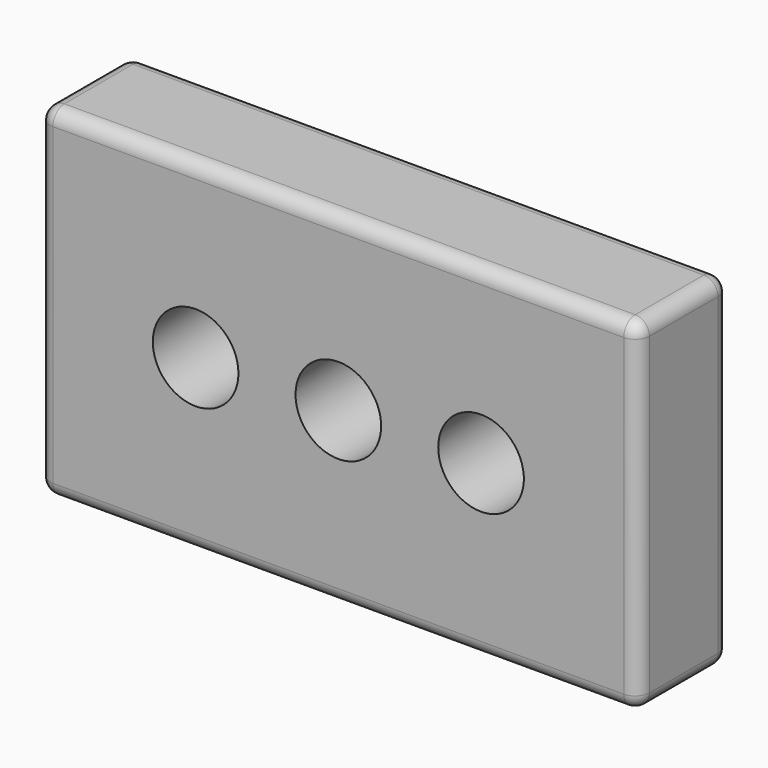
from build123d import *

# Parameters (mm, degrees)
F0_W     = 266.7
F0_H     = 152.4
F1_DEPTH = 50.8
F2_R     = 6.35
F3_R     = 19.05
F4_DEPTH = 63.5


with BuildPart() as f1:
    # F0 (on Front) → F1 (new body)
    with BuildSketch(Plane.XZ):
        Rectangle(F0_W, F0_H)
    extrude(amount=F1_DEPTH)

    # F2
    f2_edges = [f1.edges().sort_by_distance(p)[0] for p in [
        (0, -50.8, 76.2),
        (133.35, -25.4, 76.2),
        (-133.35, -25.4, 76.2),
        (0, 0, 76.2),
        (0, -50.8, -76.2),
        (-133.35, -25.4, -76.2),
        (133.35, -25.4, -76.2),
        (0, 0, -76.2),
        (-133.35, -50.8, 0),
        (-133.35, 0, 0),
        (133.35, -50.8, 0),
        (133.35, 0, 0),
    ]]
    fillet(f2_edges, radius=F2_R)

    # F3 (on face) → F4 (cut)
    with BuildSketch(Plane(origin=(0, 0, 0), x_dir=(-1, 0, 0), z_dir=(0, 1, 0))):
        with Locations((-63.5, 0)):
            Circle(F3_R)
        with BuildLine():
            ThreePointArc((-19.05, 0), (0, -19.05), (19.05, 0))
            Line((19.05, 0), (0, 0))
            Line((0, 0), (-19.05, 0))
        make_face()
        with BuildLine():
            Line((0, 0), (19.05, 0))
            ThreePointArc((19.05, 0), (0, 19.05), (-19.05, 0))
            Line((-19.05, 0), (0, 0))
        make_face()
        with BuildLine():
            ThreePointArc((82.55, 0), (63.5, 19.05), (44.45, 0))
            ThreePointArc((44.45, 0), (63.5, -19.05), (82.55, 0))
        make_face()
    extrude(amount=-F4_DEPTH, mode=Mode.SUBTRACT)


solid = f1.part
